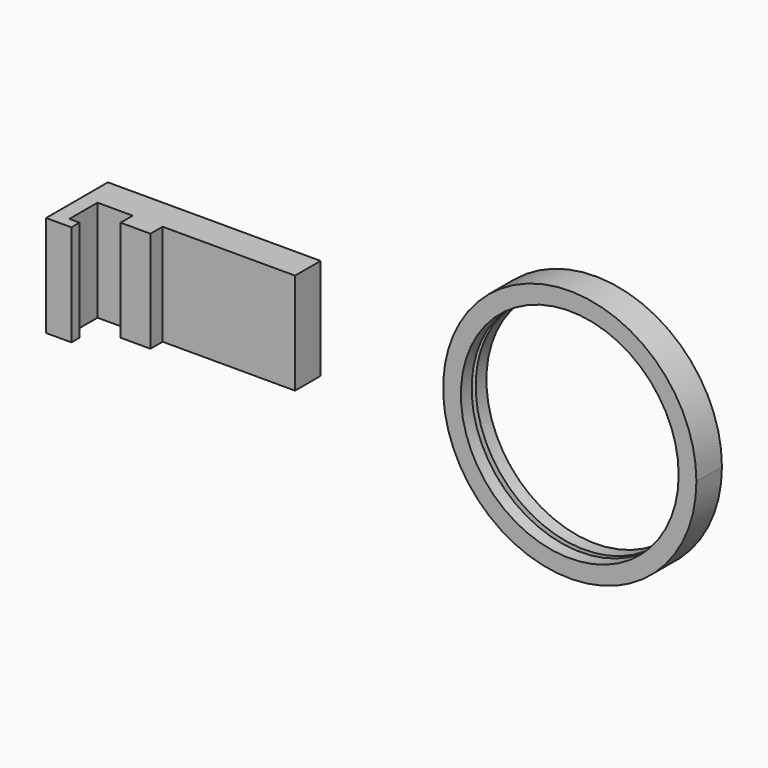
from build123d import *

# Parameters (mm, degrees)
F0_R     = 21.5
F1_DEPTH = 3.15
F5_DEPTH = 10


with BuildPart() as f1:
    # F0 (on Front) → F1 (new body, symmetric)
    with BuildSketch(Plane.XZ):
        with BuildLine():
            ThreePointArc((-23.02491, -9.739276), (4.968765, -24.501253), (25, 0))
            ThreePointArc((25, 0), (4.968765, 24.501253), (-23.02491, 9.739276))
            ThreePointArc((-23.02491, 9.739276), (-25, 0), (-23.02491, -9.739276))
        make_face()
        Circle(F0_R, mode=Mode.SUBTRACT)
    extrude(amount=F1_DEPTH, both=True)

    # F3: sweep along a path in F0
    with BuildLine(Plane.XZ) as f3_path:
        CenterArc((0, 0), 21.5, 0, 360)
    # F2 (on Top) → F3 (sweep, cut)
    with BuildSketch(Plane.XY):
        Polygon((21.5, 0), (21.5, -0.5), (24, -0.5), (24, 0.5), (21.5, 0.5), align=None)
    sweep(path=f3_path.line, mode=Mode.SUBTRACT)


with BuildPart() as f5:
    # F4 (on Top) → F5 (new body, symmetric)
    with BuildSketch(Plane.XY):
        Polygon((-54.246395, -3.139862), (-54.246395, 3.160138), (-96.246395, 3.160138), (-96.246395, -12.089862), (-91.246395, -12.089862), (-91.246395, -10.089862), (-93.246395, -10.089862), (-93.246395, -3.139862), (-86.296395, -3.139862), (-86.296395, -6.139862), (-80.396395, -6.139862), (-80.396395, -3.139862), align=None)
    extrude(amount=F5_DEPTH, both=True)


solid = Compound([f1.part, f5.part])
